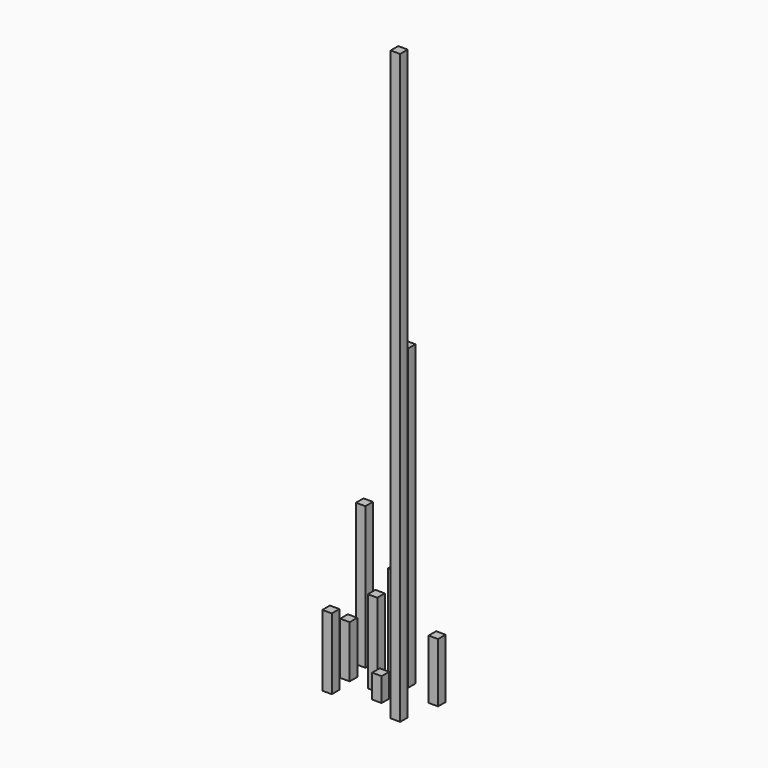
from build123d import *

# Parameters (mm, degrees)
F0_W      = 40
F0_H      = 40
F1_DEPTH  = 1260
F2_W      = 40
F2_H      = 40
F3_DEPTH  = 220
F4_W      = 40
F4_H      = 40
F5_DEPTH  = 250
F6_W      = 40
F6_H      = 40
F7_DEPTH  = 300
F8_W      = 40
F8_H      = 40
F9_DEPTH  = 2480
F10_W     = 40
F10_H     = 40
F11_DEPTH = 600
F12_W     = 40
F12_H     = 40
F13_DEPTH = 400
F14_W     = 40
F14_H     = 40
F15_DEPTH = 100
F16_W     = 40
F16_H     = 40
F17_DEPTH = 350


with BuildPart() as f1:
    # F0 (on Top) → F1 (new body)
    with BuildSketch(Plane.XY):
        with Locations((20, 20)):
            Rectangle(F0_W, F0_H)
    extrude(amount=F1_DEPTH)


with BuildPart() as f3:
    # F2 (on Top) → F3 (new body)
    with BuildSketch(Plane.XY):
        with Locations((-158.745844, -63.162114)):
            Rectangle(F2_W, F2_H)
    extrude(amount=F3_DEPTH)


with BuildPart() as f5:
    # F4 (on Top) → F5 (new body)
    with BuildSketch(Plane.XY):
        with Locations((179.904881, -20.584031)):
            Rectangle(F4_W, F4_H)
    extrude(amount=F5_DEPTH)


with BuildPart() as f7:
    # F6 (on Top) → F7 (new body)
    with BuildSketch(Plane.XY):
        with Locations((-147.608221, -171.216242)):
            Rectangle(F6_W, F6_H)
    extrude(amount=F7_DEPTH)


with BuildPart() as f9:
    # F8 (on Top) → F9 (new body)
    with BuildSketch(Plane.XY):
        with Locations((151.45169, -184.998773)):
            Rectangle(F8_W, F8_H)
    extrude(amount=F9_DEPTH)


with BuildPart() as f11:
    # F10 (on Top) → F11 (new body)
    with BuildSketch(Plane.XY):
        with Locations((-178.853832, 44.831153)):
            Rectangle(F10_W, F10_H)
    extrude(amount=F11_DEPTH)


with BuildPart() as f13:
    # F12 (on Top) → F13 (new body)
    with BuildSketch(Plane.XY):
        with Locations((-44.524428, 45.218093)):
            Rectangle(F12_W, F12_H)
    extrude(amount=F13_DEPTH)


with BuildPart() as f15:
    # F14 (on Top) → F15 (new body)
    with BuildSketch(Plane.XY):
        with Locations((20, -118.190035)):
            Rectangle(F14_W, F14_H)
    extrude(amount=F15_DEPTH)


with BuildPart() as f17:
    # F16 (on Top) → F17 (new body)
    with BuildSketch(Plane.XY):
        with Locations((-40.644698, -65.348525)):
            Rectangle(F16_W, F16_H)
    extrude(amount=F17_DEPTH)


solid = Compound([f1.part, f3.part, f5.part, f7.part, f9.part, f11.part, f13.part, f15.part, f17.part])
